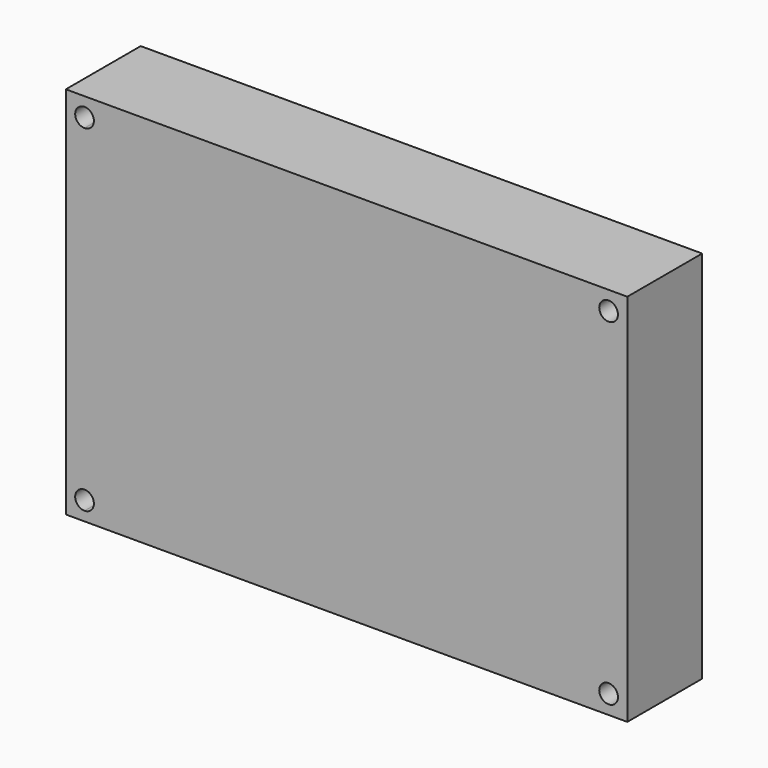
from build123d import *

# Parameters (mm, degrees)
F1_DEPTH = 10


with BuildPart() as f1:
    # F0 (on Front) → F1 (new body)
    with BuildSketch(Plane.XZ):
        with BuildLine():
            ThreePointArc((29, 18), (28, 19), (27, 18))
            ThreePointArc((27, 18), (28, 17), (29, 18))
        make_face()
        with BuildLine():
            ThreePointArc((29, -18), (28, -17), (27, -18))
            ThreePointArc((27, -18), (28, -19), (29, -18))
        make_face()
        Polygon((30, -20), (30, 20), (-30, 20), (-30, -20), (-28, -20), align=None)
        with BuildLine():
            ThreePointArc((-27, -18), (-27.292893, -18.707107), (-28, -19))
            ThreePointArc((-28, -19), (-29, -18), (-28, -17))
            ThreePointArc((-28, -17), (-27.292893, -17.292893), (-27, -18))
        make_face(mode=Mode.SUBTRACT)
        with BuildLine():
            ThreePointArc((29, -18), (28, -19), (27, -18))
            ThreePointArc((27, -18), (28, -17), (29, -18))
        make_face(mode=Mode.SUBTRACT)
        with BuildLine():
            ThreePointArc((-27, 18), (-27.292893, 17.292893), (-28, 17))
            ThreePointArc((-28, 17), (-28.707107, 18.707107), (-27, 18))
        make_face(mode=Mode.SUBTRACT)
        with BuildLine():
            ThreePointArc((29, 18), (28, 17), (27, 18))
            ThreePointArc((27, 18), (28, 19), (29, 18))
        make_face(mode=Mode.SUBTRACT)
    extrude(amount=F1_DEPTH)


solid = f1.part
